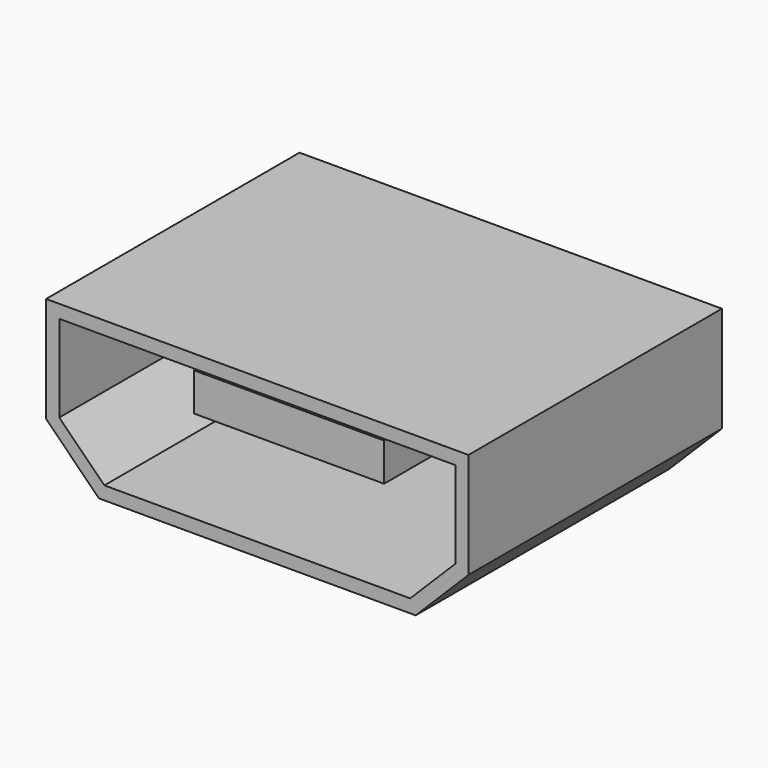
from build123d import *

# Parameters (mm, degrees)
F1_DEPTH = 6
F2_T     = -0.25
F3_W     = 1.8021183787
F3_H     = 0.7201734115
F4_DEPTH = 5
F5_W     = 1.6065204982
F5_H     = 0.6512082182
F6_DEPTH = 0.762


with BuildPart() as f1:
    # F0 (on Front) → F1 (new body)
    with BuildSketch(Plane.XZ):
        Polygon((4, -0.5), (4, 1.5), (-4, 1.5), (-4, -0.5), (-3, -1.5), (3, -1.5), align=None)
    extrude(amount=F1_DEPTH)

    # F2
    f2_openings = [f1.faces().sort_by_distance(p)[0] for p in [
        (0, -6, 0.050725),
    ]]
    offset(amount=F2_T, openings=f2_openings)

    # F3 (on face) → F4 (join)
    with BuildSketch(Plane.XZ.offset(0.25)):
        with Locations((-0.9010591893, 0.3600867058)):
            Rectangle(F3_W, F3_H)
        with Locations((0.9010591893, 0.3600867058)):
            Rectangle(F3_W, F3_H)
    extrude(amount=F4_DEPTH)

    # F5 (on face) → F6 (join)
    with BuildSketch(Plane(origin=(0, 0, 0), x_dir=(-1, 0, 0), z_dir=(0, 1, 0))):
        with Locations((0.8032602491, 0.3256041091)):
            Rectangle(F5_W, F5_H)
        with Locations((-0.8032602491, 0.3256041091)):
            Rectangle(F5_W, F5_H)
    extrude(amount=F6_DEPTH)


solid = f1.part
